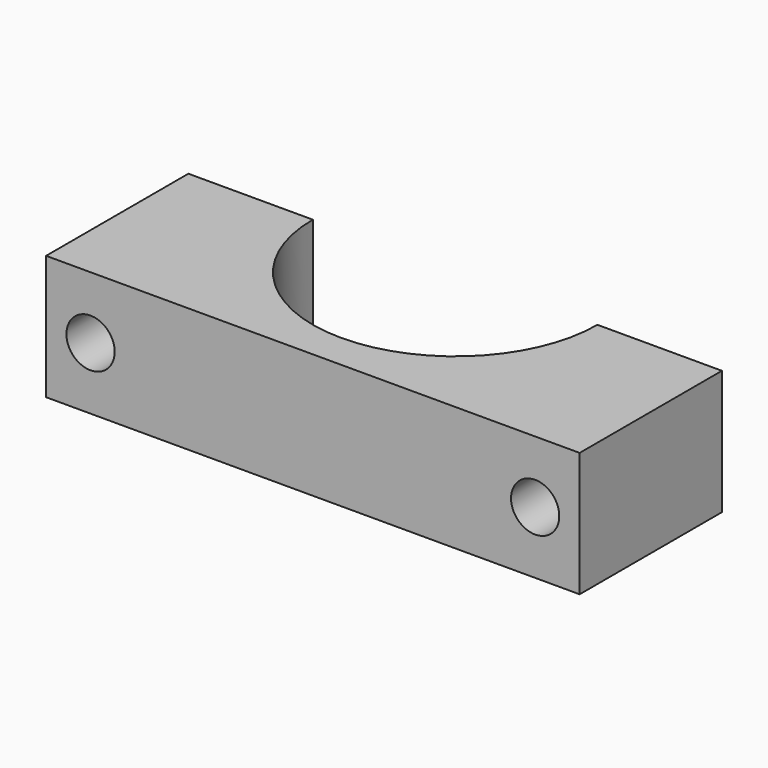
from build123d import *

# Parameters (mm, degrees)
F1_DEPTH = 11.1125
F2_R     = 2.15265
F3_DEPTH = 15.875


with BuildPart() as f1:
    # F0 (on Top) → F1 (new body)
    with BuildSketch(Plane.XY):
        with BuildLine():
            Line((-47.625, -15.875), (0, -15.875))
            Line((0, -15.875), (0, 0))
            Line((0, 0), (-11.1125, 0))
            ThreePointArc((-11.1125, 0), (-23.8125, -12.7), (-36.5125, 0))
            Line((-36.5125, 0), (-47.625, 0))
            Line((-47.625, 0), (-47.625, -15.875))
        make_face()
    extrude(amount=F1_DEPTH)

    # F2 (on face) → F3 (cut, through all)
    with BuildSketch(Plane(origin=(0, 0, 0), x_dir=(-1, 0, 0), z_dir=(0, 1, 0))):
        with Locations((43.65625, 5.55625)):
            Circle(F2_R)
        with Locations((3.96875, 5.55625)):
            Circle(F2_R)
    extrude(amount=-F3_DEPTH, mode=Mode.SUBTRACT)


solid = f1.part
